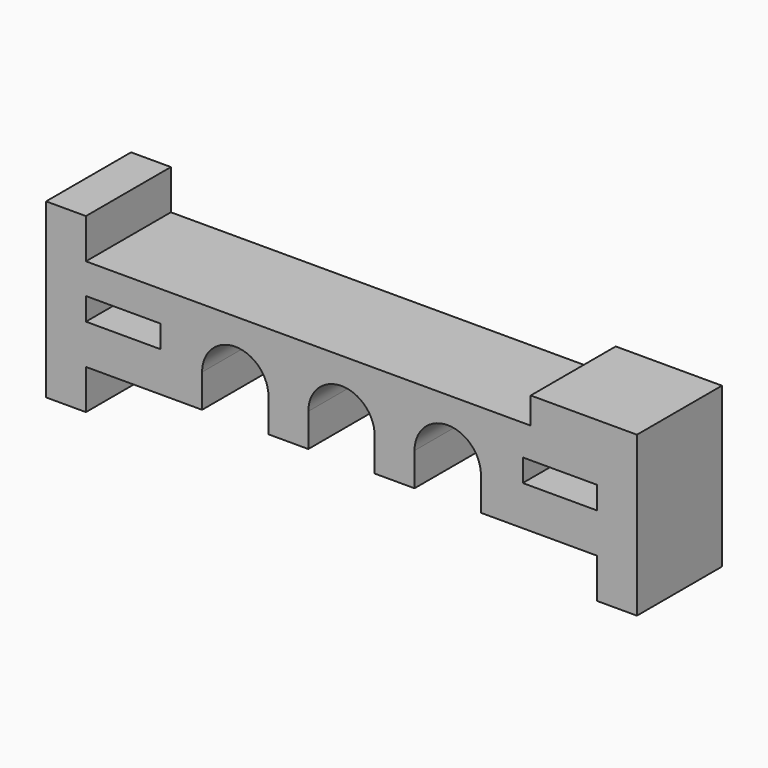
from build123d import *

# Parameters (mm, degrees)
SKETCH_W  = 5.6
SKETCH_H  = 1.7
PAD_DEPTH = 8


with BuildPart() as part:
    # Sketch → Pad (new body)
    with BuildSketch(Plane.XZ):
        with BuildLine():
            Line((-22.25, -3), (-19.25, -3))
            Line((-19.25, -3), (-19.25, 0))
            Line((-19.25, 0), (-10.5, 0))
            Line((-10.5, 0), (-10.5, 2.5))
            ThreePointArc((-5.5, 2.5), (-8, 5), (-10.5, 2.5))
            Line((-5.5, 2.5), (-5.5, 0))
            Line((-5.5, 0), (-2.5, 0))
            Line((-2.5, 0), (-2.5, 2.5))
            ThreePointArc((2.5, 2.5), (0, 5), (-2.5, 2.5))
            Line((2.5, 2.5), (2.5, 0))
            Line((2.5, 0), (5.5, 0))
            Line((5.5, 0), (5.5, 2.5))
            ThreePointArc((10.5, 2.5), (8, 5), (5.5, 2.5))
            Line((10.5, 2.5), (10.5, 0))
            Line((10.5, 0), (19.25, 0))
            Line((19.25, 0), (19.25, -3))
            Line((19.25, -3), (22.25, -3))
            Line((22.25, -3), (22.25, 9))
            Line((22.25, 9), (14.25, 9))
            Line((14.25, 9), (14.25, 7))
            Line((14.25, 7), (-19.25, 7))
            Line((-19.25, 7), (-19.25, 10))
            Line((-19.25, 10), (-22.25, 10))
            Line((-22.25, 10), (-22.25, -3))
        make_face()
        with Locations((-16.45, 3.85)):
            Rectangle(SKETCH_W, SKETCH_H, mode=Mode.SUBTRACT)
        with Locations((16.45, 3.85)):
            Rectangle(SKETCH_W, SKETCH_H, mode=Mode.SUBTRACT)
    extrude(amount=PAD_DEPTH)


solid = part.part
